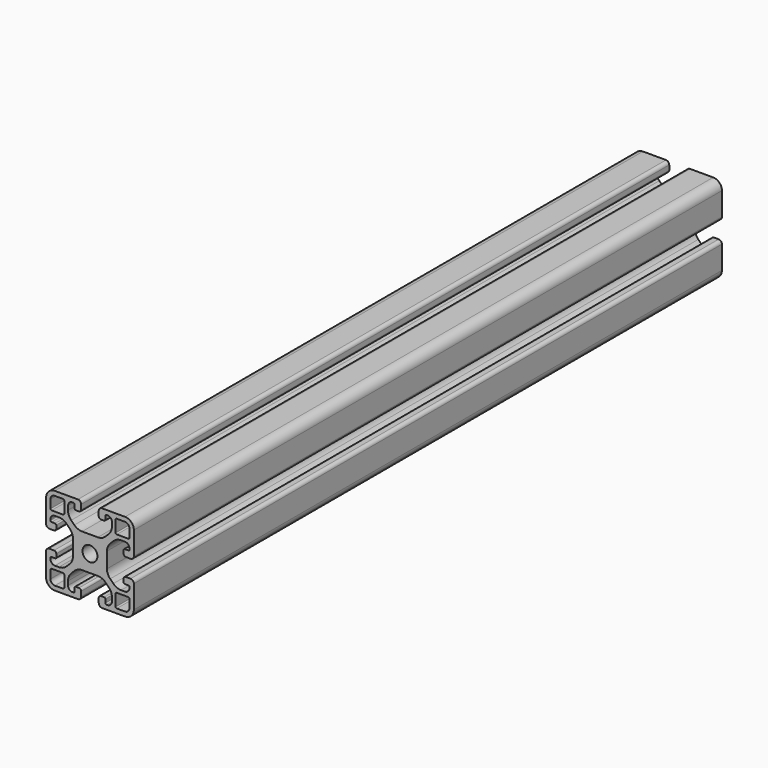
from build123d import *

# Parameters (mm, degrees)
F0_R     = 3.4
F1_DEPTH = 335


with BuildPart() as f1:
    # F0 (on Front) → F1 (new body)
    with BuildSketch(Plane.XZ):
        with BuildLine():
            Line((7.75, -3.557612), (7.75, 0))
            Line((7.75, 0), (7.75, 3.557612))
            ThreePointArc((7.75, 3.557612), (8.130602, 5.471029), (9.214466, 7.093146))
            Line((9.214466, 7.093146), (10.656854, 8.535534))
            ThreePointArc((10.656854, 8.535534), (12.278971, 9.619398), (14.192388, 10))
            Line((14.192388, 10), (16, 10))
            ThreePointArc((16, 10), (17.414214, 9.414214), (18, 8))
            Line((18, 8), (18, 7.5))
            ThreePointArc((18, 7.5), (17.853553, 7.146447), (17.5, 7))
            Line((17.5, 7), (15.85, 7))
            ThreePointArc((15.85, 7), (15.496447, 6.853553), (15.35, 6.5))
            Line((15.35, 6.5), (15.35, 5))
            ThreePointArc((15.35, 5), (15.642893, 4.292893), (16.35, 4))
            Line((16.35, 4), (18.5, 4))
            ThreePointArc((18.5, 4), (19.56066, 4.43934), (20, 5.5))
            Line((20, 5.5), (20, 16))
            ThreePointArc((20, 16), (18.828427, 18.828427), (16, 20))
            Line((16, 20), (5.5, 20))
            ThreePointArc((5.5, 20), (4.43934, 19.56066), (4, 18.5))
            Line((4, 18.5), (4, 16.35))
            ThreePointArc((4, 16.35), (4.292893, 15.642893), (5, 15.35))
            Line((5, 15.35), (6.5, 15.35))
            ThreePointArc((6.5, 15.35), (6.853553, 15.496447), (7, 15.85))
            Line((7, 15.85), (7, 17.5))
            ThreePointArc((7, 17.5), (7.146447, 17.853553), (7.5, 18))
            Line((7.5, 18), (8, 18))
            ThreePointArc((8, 18), (9.414214, 17.414214), (10, 16))
            Line((10, 16), (10, 14.192388))
            ThreePointArc((10, 14.192388), (9.619398, 12.278971), (8.535534, 10.656854))
            Line((8.535534, 10.656854), (7.093146, 9.214466))
            ThreePointArc((7.093146, 9.214466), (5.471029, 8.130602), (3.557612, 7.75))
            Line((3.557612, 7.75), (0, 7.75))
            Line((0, 7.75), (-3.557612, 7.75))
            ThreePointArc((-3.557612, 7.75), (-5.471029, 8.130602), (-7.093146, 9.214466))
            Line((-7.093146, 9.214466), (-8.535534, 10.656854))
            ThreePointArc((-8.535534, 10.656854), (-9.619398, 12.278971), (-10, 14.192388))
            Line((-10, 14.192388), (-10, 16))
            ThreePointArc((-10, 16), (-9.414214, 17.414214), (-8, 18))
            Line((-8, 18), (-7.5, 18))
            ThreePointArc((-7.5, 18), (-7.146447, 17.853553), (-7, 17.5))
            Line((-7, 17.5), (-7, 15.85))
            ThreePointArc((-7, 15.85), (-6.853553, 15.496447), (-6.5, 15.35))
            Line((-6.5, 15.35), (-5, 15.35))
            ThreePointArc((-5, 15.35), (-4.292893, 15.642893), (-4, 16.35))
            Line((-4, 16.35), (-4, 18.5))
            ThreePointArc((-4, 18.5), (-4.43934, 19.56066), (-5.5, 20))
            Line((-5.5, 20), (-16, 20))
            ThreePointArc((-16, 20), (-18.828427, 18.828427), (-20, 16))
            Line((-20, 16), (-20, 5.5))
            ThreePointArc((-20, 5.5), (-19.56066, 4.43934), (-18.5, 4))
            Line((-18.5, 4), (-16.35, 4))
            ThreePointArc((-16.35, 4), (-15.642893, 4.292893), (-15.35, 5))
            Line((-15.35, 5), (-15.35, 6.5))
            ThreePointArc((-15.35, 6.5), (-15.496447, 6.853553), (-15.85, 7))
            Line((-15.85, 7), (-17.5, 7))
            ThreePointArc((-17.5, 7), (-17.853553, 7.146447), (-18, 7.5))
            Line((-18, 7.5), (-18, 8))
            ThreePointArc((-18, 8), (-17.414214, 9.414214), (-16, 10))
            Line((-16, 10), (-14.192388, 10))
            ThreePointArc((-14.192388, 10), (-12.278971, 9.619398), (-10.656854, 8.535534))
            Line((-10.656854, 8.535534), (-9.214466, 7.093146))
            ThreePointArc((-9.214466, 7.093146), (-8.130602, 5.471029), (-7.75, 3.557612))
            Line((-7.75, 3.557612), (-7.75, 0))
            Line((-7.75, 0), (-7.75, -3.557612))
            ThreePointArc((-7.75, -3.557612), (-8.130602, -5.471029), (-9.214466, -7.093146))
            Line((-9.214466, -7.093146), (-10.656854, -8.535534))
            ThreePointArc((-10.656854, -8.535534), (-12.278971, -9.619398), (-14.192388, -10))
            Line((-14.192388, -10), (-16, -10))
            ThreePointArc((-16, -10), (-17.414214, -9.414214), (-18, -8))
            Line((-18, -8), (-18, -7.5))
            ThreePointArc((-18, -7.5), (-17.853553, -7.146447), (-17.5, -7))
            Line((-17.5, -7), (-15.85, -7))
            ThreePointArc((-15.85, -7), (-15.496447, -6.853553), (-15.35, -6.5))
            Line((-15.35, -6.5), (-15.35, -5))
            ThreePointArc((-15.35, -5), (-15.642893, -4.292893), (-16.35, -4))
            Line((-16.35, -4), (-18.5, -4))
            ThreePointArc((-18.5, -4), (-19.56066, -4.43934), (-20, -5.5))
            Line((-20, -5.5), (-20, -16))
            ThreePointArc((-20, -16), (-18.828427, -18.828427), (-16, -20))
            Line((-16, -20), (-5.5, -20))
            ThreePointArc((-5.5, -20), (-4.43934, -19.56066), (-4, -18.5))
            Line((-4, -18.5), (-4, -16.35))
            ThreePointArc((-4, -16.35), (-4.292893, -15.642893), (-5, -15.35))
            Line((-5, -15.35), (-6.5, -15.35))
            ThreePointArc((-6.5, -15.35), (-6.853553, -15.496447), (-7, -15.85))
            Line((-7, -15.85), (-7, -17.5))
            ThreePointArc((-7, -17.5), (-7.146447, -17.853553), (-7.5, -18))
            Line((-7.5, -18), (-8, -18))
            ThreePointArc((-8, -18), (-9.414214, -17.414214), (-10, -16))
            Line((-10, -16), (-10, -14.192388))
            ThreePointArc((-10, -14.192388), (-9.619398, -12.278971), (-8.535534, -10.656854))
            Line((-8.535534, -10.656854), (-7.093146, -9.214466))
            ThreePointArc((-7.093146, -9.214466), (-5.471029, -8.130602), (-3.557612, -7.75))
            Line((-3.557612, -7.75), (0, -7.75))
            Line((0, -7.75), (3.557612, -7.75))
            ThreePointArc((3.557612, -7.75), (5.471029, -8.130602), (7.093146, -9.214466))
            Line((7.093146, -9.214466), (8.535534, -10.656854))
            ThreePointArc((8.535534, -10.656854), (9.619398, -12.278971), (10, -14.192388))
            Line((10, -14.192388), (10, -16))
            ThreePointArc((10, -16), (9.414214, -17.414214), (8, -18))
            Line((8, -18), (7.5, -18))
            ThreePointArc((7.5, -18), (7.146447, -17.853553), (7, -17.5))
            Line((7, -17.5), (7, -15.85))
            ThreePointArc((7, -15.85), (6.853553, -15.496447), (6.5, -15.35))
            Line((6.5, -15.35), (5, -15.35))
            ThreePointArc((5, -15.35), (4.292893, -15.642893), (4, -16.35))
            Line((4, -16.35), (4, -18.5))
            ThreePointArc((4, -18.5), (4.43934, -19.56066), (5.5, -20))
            Line((5.5, -20), (16, -20))
            ThreePointArc((16, -20), (18.828427, -18.828427), (20, -16))
            Line((20, -16), (20, -5.5))
            ThreePointArc((20, -5.5), (19.56066, -4.43934), (18.5, -4))
            Line((18.5, -4), (16.35, -4))
            ThreePointArc((16.35, -4), (15.642893, -4.292893), (15.35, -5))
            Line((15.35, -5), (15.35, -6.5))
            ThreePointArc((15.35, -6.5), (15.496447, -6.853553), (15.85, -7))
            Line((15.85, -7), (17.5, -7))
            ThreePointArc((17.5, -7), (17.853553, -7.146447), (18, -7.5))
            Line((18, -7.5), (18, -8))
            ThreePointArc((18, -8), (17.414214, -9.414214), (16, -10))
            Line((16, -10), (14.192388, -10))
            ThreePointArc((14.192388, -10), (12.278971, -9.619398), (10.656854, -8.535534))
            Line((10.656854, -8.535534), (9.214466, -7.093146))
            ThreePointArc((9.214466, -7.093146), (8.130602, -5.471029), (7.75, -3.557612))
        make_face()
        with BuildLine():
            Line((-17.5, -11.7), (-12.2, -11.7))
            ThreePointArc((-12.2, -11.7), (-11.846447, -11.846447), (-11.7, -12.2))
            Line((-11.7, -12.2), (-11.7, -17.5))
            ThreePointArc((-11.7, -17.5), (-11.846447, -17.853553), (-12.2, -18))
            Line((-12.2, -18), (-16, -18))
            ThreePointArc((-16, -18), (-17.414214, -17.414214), (-18, -16))
            Line((-18, -16), (-18, -12.2))
            ThreePointArc((-18, -12.2), (-17.853553, -11.846447), (-17.5, -11.7))
        make_face(mode=Mode.SUBTRACT)
        with BuildLine():
            ThreePointArc((11.7, -12.2), (11.846447, -11.846447), (12.2, -11.7))
            Line((12.2, -11.7), (17.5, -11.7))
            ThreePointArc((17.5, -11.7), (17.853553, -11.846447), (18, -12.2))
            Line((18, -12.2), (18, -16))
            ThreePointArc((18, -16), (17.414214, -17.414214), (16, -18))
            Line((16, -18), (12.2, -18))
            ThreePointArc((12.2, -18), (11.846447, -17.853553), (11.7, -17.5))
            Line((11.7, -17.5), (11.7, -12.2))
        make_face(mode=Mode.SUBTRACT)
        with BuildLine():
            ThreePointArc((-11.7, 12.2), (-11.846447, 11.846447), (-12.2, 11.7))
            Line((-12.2, 11.7), (-17.5, 11.7))
            ThreePointArc((-17.5, 11.7), (-17.853553, 11.846447), (-18, 12.2))
            Line((-18, 12.2), (-18, 16))
            ThreePointArc((-18, 16), (-17.414214, 17.414214), (-16, 18))
            Line((-16, 18), (-12.2, 18))
            ThreePointArc((-12.2, 18), (-11.846447, 17.853553), (-11.7, 17.5))
            Line((-11.7, 17.5), (-11.7, 12.2))
        make_face(mode=Mode.SUBTRACT)
        Circle(F0_R, mode=Mode.SUBTRACT)
        with BuildLine():
            Line((17.5, 11.7), (12.2, 11.7))
            ThreePointArc((12.2, 11.7), (11.846447, 11.846447), (11.7, 12.2))
            Line((11.7, 12.2), (11.7, 17.5))
            ThreePointArc((11.7, 17.5), (11.846447, 17.853553), (12.2, 18))
            Line((12.2, 18), (16, 18))
            ThreePointArc((16, 18), (17.414214, 17.414214), (18, 16))
            Line((18, 16), (18, 12.2))
            ThreePointArc((18, 12.2), (17.853553, 11.846447), (17.5, 11.7))
        make_face(mode=Mode.SUBTRACT)
    extrude(amount=F1_DEPTH)


solid = f1.part
